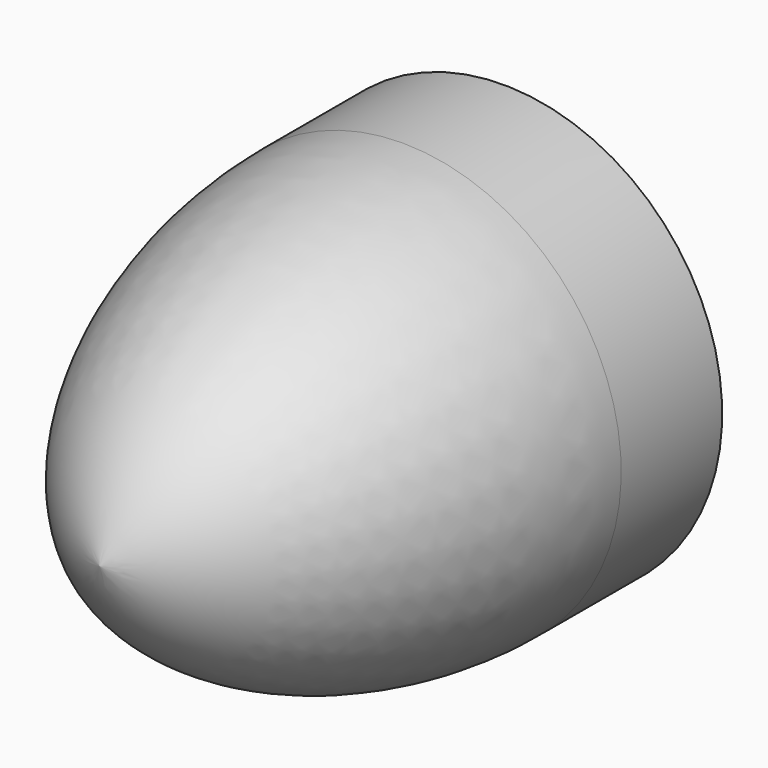
from build123d import *

# Parameters (mm, degrees)
F2_R     = 35.5
F2_R_2   = 34.7
F3_DEPTH = 20.5


with BuildPart() as f1:
    # F0 (on Right) → F1 (revolve)
    with BuildSketch(Plane.YZ):
        with BuildLine():
            Line((-81.987804, 0), (0, 0))
            Line((0, 0), (0, 24))
            Line((0, 24), (-20.5, 24))
            Line((-20.5, 24), (-20.5, 35.5))
            add(Edge.make_bspline(
                [(-20.5, 35.5), (-46.429314, 35.5), (-75.681284, 22.302095), (-81.987804, 0)],
                knots=[0, 0, 0, 0, 71, 71, 71, 71], degree=3))
        make_face()
    revolve(axis=Axis((0, -40.993902, 0), (0, -1, 0)))

    # F2 (on face) → F3 (join, through all)
    with BuildSketch(Plane(origin=(0, -20.5, 0), x_dir=(-1, 0, 0), z_dir=(0, 1, 0))):
        Circle(F2_R)
        Circle(F2_R_2, mode=Mode.SUBTRACT)
    extrude(amount=F3_DEPTH)


solid = f1.part
